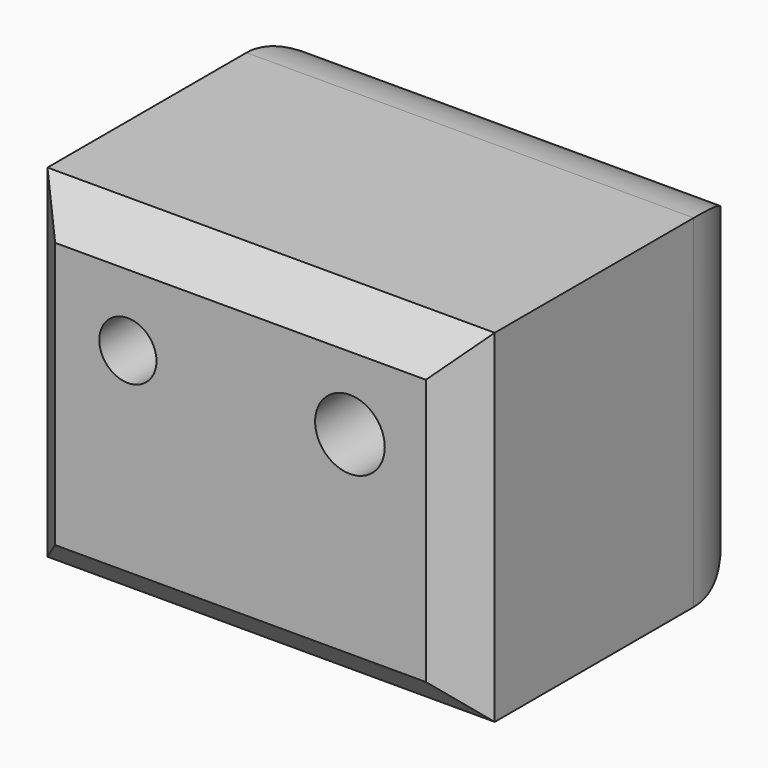
from build123d import *

# Parameters (mm, degrees)
F0_W     = 59.375844
F0_H     = 45.479368
F1_DEPTH = 50.8
F2_SIZE  = 5.08
F3_R     = 12.7
F4_R     = 3.795792
F4_R_2   = 4.622578
F5_DEPTH = 50.8


with BuildPart() as f1:
    # F0 (on Front) → F1 (new body)
    with BuildSketch(Plane.XZ):
        Rectangle(F0_W, F0_H)
    extrude(amount=F1_DEPTH)

    # F2
    f2_edges = [f1.edges().sort_by_distance(p)[0] for p in [
        (0, -50.8, 22.739684),
        (29.687922, -50.8, 0),
        (0, -50.8, -22.739684),
        (-29.687922, -50.8, 0),
    ]]
    chamfer(f2_edges, length=F2_SIZE)

    # F3
    f3_edges = [f1.edges().sort_by_distance(p)[0] for p in [
        (29.687922, 0, 0),
        (0, 0, 22.739684),
        (-29.687922, 0, 0),
        (0, 0, -22.739684),
    ]]
    fillet(f3_edges, radius=F3_R)

    # F4 (on face) → F5 (cut)
    with BuildSketch(Plane.XZ.offset(50.8)):
        with Locations((-14.949238, 8.211552)):
            Circle(F4_R)
        with Locations((14.528131, 8.001001)):
            Circle(F4_R_2)
    extrude(amount=-F5_DEPTH, mode=Mode.SUBTRACT)


solid = f1.part
